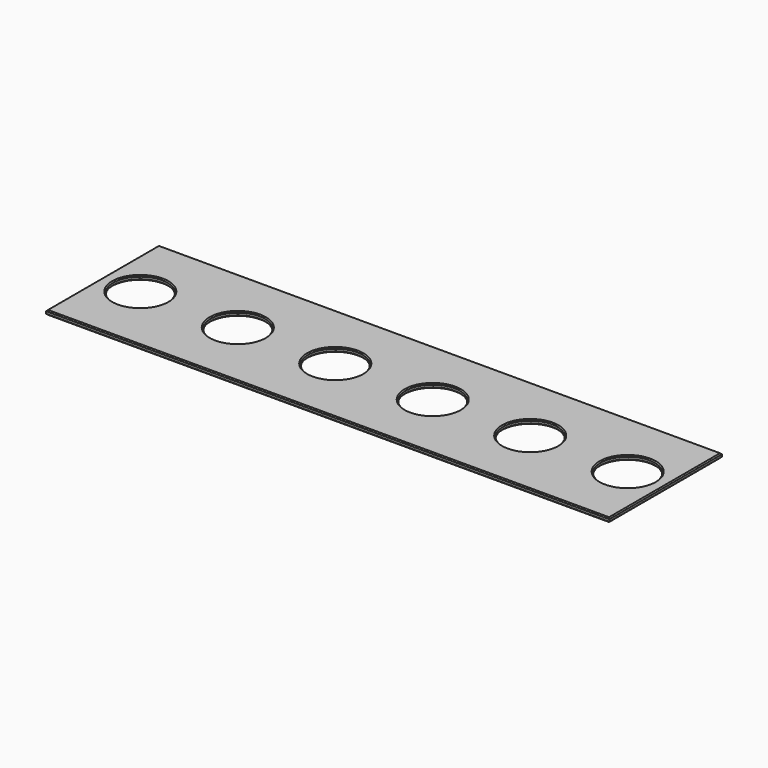
from build123d import *

# Parameters (mm, degrees)
F0_W     = 260
F0_H     = 65
F0_R     = 12.5
F1_DEPTH = 2
F2_SIZE  = 0.5


with BuildPart() as f1:
    # F0 (on Top) → F1 (new body)
    with BuildSketch(Plane.XY):
        with Locations((130, -32.5)):
            Rectangle(F0_W, F0_H)
        with Locations((17.5, -32.5)):
            Circle(F0_R, mode=Mode.SUBTRACT)
        with Locations((62.5, -32.5)):
            Circle(F0_R, mode=Mode.SUBTRACT)
        with Locations((107.5, -32.5)):
            Circle(F0_R, mode=Mode.SUBTRACT)
        with Locations((152.5, -32.5)):
            Circle(F0_R, mode=Mode.SUBTRACT)
        with Locations((197.5, -32.5)):
            Circle(F0_R, mode=Mode.SUBTRACT)
        with Locations((242.5, -32.5)):
            Circle(F0_R, mode=Mode.SUBTRACT)
    extrude(amount=F1_DEPTH)

    # F2
    f2_edges = [f1.edges().sort_by_distance(p)[0] for p in [
        (130, 0, 2),
        (0, -32.5, 2),
        (130, -65, 2),
        (260, -32.5, 2),
        (5, -32.5, 2),
        (50, -32.5, 2),
        (95, -32.5, 2),
        (140, -32.5, 2),
        (185, -32.5, 2),
        (230, -32.5, 2),
        (130, 0, 0),
        (0, -32.5, 0),
        (130, -65, 0),
        (260, -32.5, 0),
        (5, -32.5, 0),
        (50, -32.5, 0),
        (95, -32.5, 0),
        (140, -32.5, 0),
        (185, -32.5, 0),
        (230, -32.5, 0),
    ]]
    chamfer(f2_edges, length=F2_SIZE)


solid = f1.part
